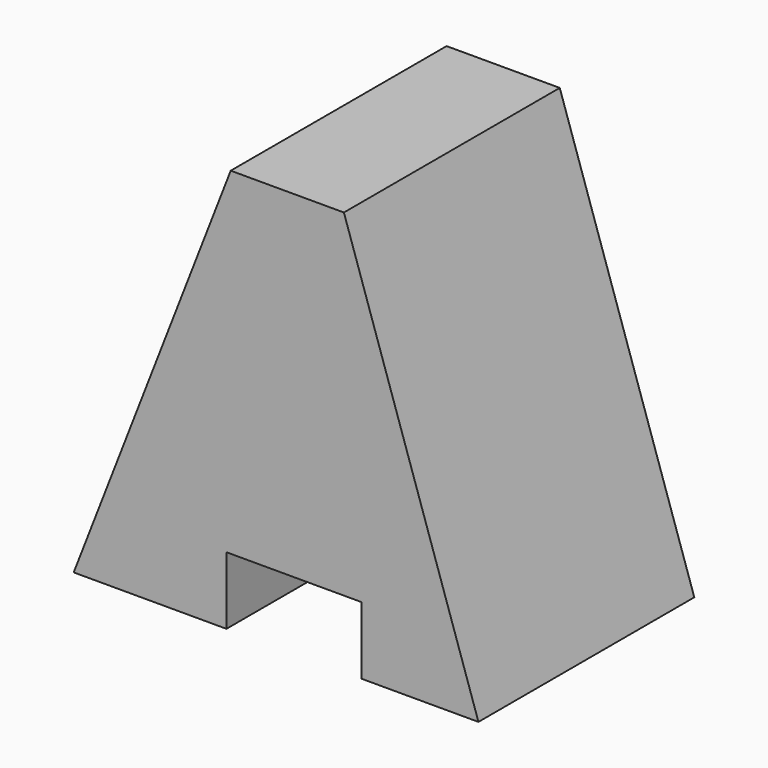
from build123d import *

# Parameters (mm, degrees)
F0_W     = 38.1
F0_H     = 38.1
F1_DEPTH = 25.4
F3_DEPTH = 25.4
F4_W     = 12.7
F4_H     = 6.35
F5_DEPTH = 25.4


with BuildPart() as f1:
    # F0 (on Front) → F1 (new body)
    with BuildSketch(Plane.XZ):
        with Locations((-19.05, 19.05)):
            Rectangle(F0_W, F0_H)
        with Locations((-19.05, 19.05)):
            Rectangle(F0_W, F0_H)
    extrude(amount=F1_DEPTH)

    # F2 (on face) → F3 (cut)
    with BuildSketch(Plane.XZ.offset(25.4)):
        Polygon((-38.1, 38.1), (-38.1, 0), (-23.319498, 38.1), align=None)
        Polygon((-12.6649, 38.1), (0, 0), (0, 38.1), align=None)
    extrude(amount=-F3_DEPTH, mode=Mode.SUBTRACT)

    # F4 (on face) → F5 (cut)
    with BuildSketch(Plane.XZ.offset(25.4)):
        with Locations((-17.371559, 3.175)):
            Rectangle(F4_W, F4_H)
    extrude(amount=-F5_DEPTH, mode=Mode.SUBTRACT)


solid = f1.part
